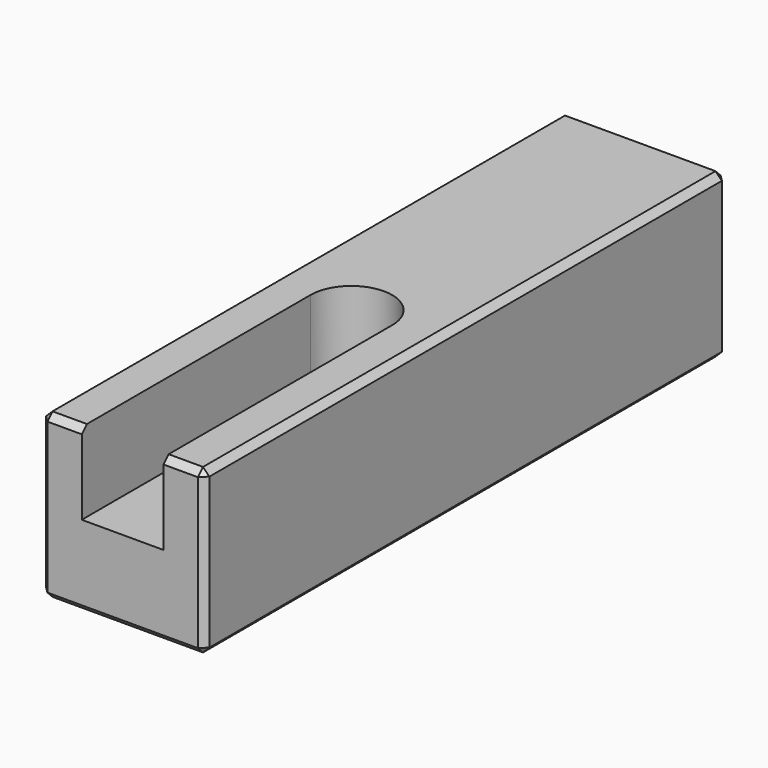
from build123d import *

# Parameters (mm, degrees)
F0_W     = 25.4
F0_H     = 25.4
F1_DEPTH = 50.8
F3_DEPTH = 12.7
F4_SIZE  = 1


with BuildPart() as f1:
    # F0 (on Front) → F1 (new body, symmetric)
    with BuildSketch(Plane.XZ):
        Rectangle(F0_W, F0_H)
    extrude(amount=F1_DEPTH, both=True)

    # F2 (on face) → F3 (cut)
    with BuildSketch(Plane.XY.offset(12.7)):
        with BuildLine():
            Line((-6.35, -6.35), (-6.35, -50.8))
            Line((-6.35, -50.8), (6.35, -50.8))
            Line((6.35, -50.8), (6.35, -6.35))
            ThreePointArc((6.35, -6.35), (0, 0), (-6.35, -6.35))
        make_face()
    extrude(amount=-F3_DEPTH, mode=Mode.SUBTRACT)

    # F4
    f4_edges = [f1.edges().sort_by_distance(p)[0] for p in [
        (12.7, 0, -12.7),
        (12.7, 50.8, 0),
        (12.7, 0, 12.7),
        (12.7, -50.8, 0),
        (0, 50.8, -12.7),
        (0, 50.8, 12.7),
        (-12.7, 50.8, 0),
        (-12.7, 0, -12.7),
        (-12.7, -50.8, 0),
        (-12.7, 0, 12.7),
        (0, -50.8, -12.7),
        (-9.525, -50.8, 12.7),
        (9.525, -50.8, 12.7),
    ]]
    chamfer(f4_edges, length=F4_SIZE)


solid = f1.part
